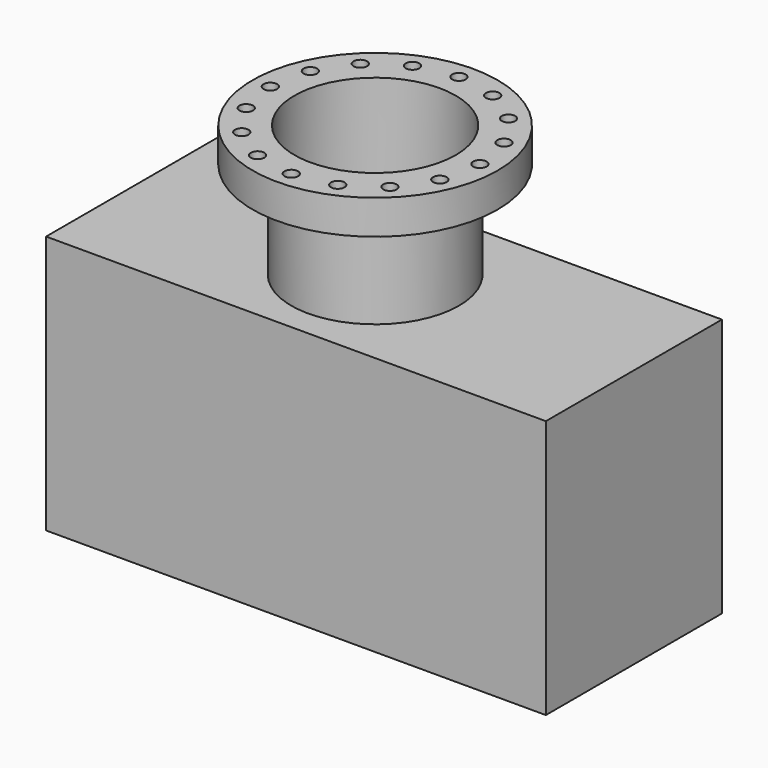
from build123d import *

# Parameters (mm, degrees)
F0_W     = 310
F0_H     = 136.5
F1_DEPTH = 160.5
F2_R     = 52
F2_R_2   = 50
F3_DEPTH = 60.3
F4_R     = 76
F4_R_2   = 52
F4_R_3   = 50
F5_DEPTH = 21.3
F7_D     = 8.4
F7_DEPTH = 24
F7_TIP   = 2.5236145999


with BuildPart() as f1:
    # F0 (on Top) → F1 (new body)
    with BuildSketch(Plane.XY):
        Rectangle(F0_W, F0_H)
    extrude(amount=F1_DEPTH)

    # F2 (on face) → F3 (join)
    with BuildSketch(Plane.XY.offset(160.5)):
        with Locations((-5.5, 0)):
            Circle(F2_R)
        with Locations((-5.5, 0)):
            Circle(F2_R_2, mode=Mode.SUBTRACT)
    extrude(amount=F3_DEPTH)

    # F4 (on face) → F5 (join)
    with BuildSketch(Plane.XY.offset(220.8)):
        with Locations((-5.5, 0)):
            Circle(F4_R)
        with Locations((-5.5, 0)):
            Circle(F4_R_2, mode=Mode.SUBTRACT)
        with Locations((-5.5, 0)):
            Circle(F4_R_2)
        with Locations((-5.5, 0)):
            Circle(F4_R_3, mode=Mode.SUBTRACT)
    extrude(amount=F5_DEPTH)

    # F7
    with Locations(Plane.XY.offset(242.1)):
        with Locations((-5.5, 65), (19.3744231037, 60.0521696132), (40.4619407771, 45.9619407771), (54.5521696132, 24.8744231037), (59.5, 0), (54.5521696132, -24.8744231037), (40.4619407771, -45.9619407771), (19.3744231037, -60.0521696132), (-5.5, -65), (-30.3744231037, -60.0521696132), (-51.4619407771, -45.9619407771), (-65.5521696132, -24.8744231037), (-70.5, 0), (-65.5521696132, 24.8744231037), (-51.4619407771, 45.9619407771), (-30.3744231037, 60.0521696132)):
            Hole(F7_D / 2, depth=F7_DEPTH)
            with Locations((0, 0, -(F7_DEPTH + F7_TIP / 2))):  # 118° drill point
                Cone(0, F7_D / 2, F7_TIP, mode=Mode.SUBTRACT)


solid = f1.part
